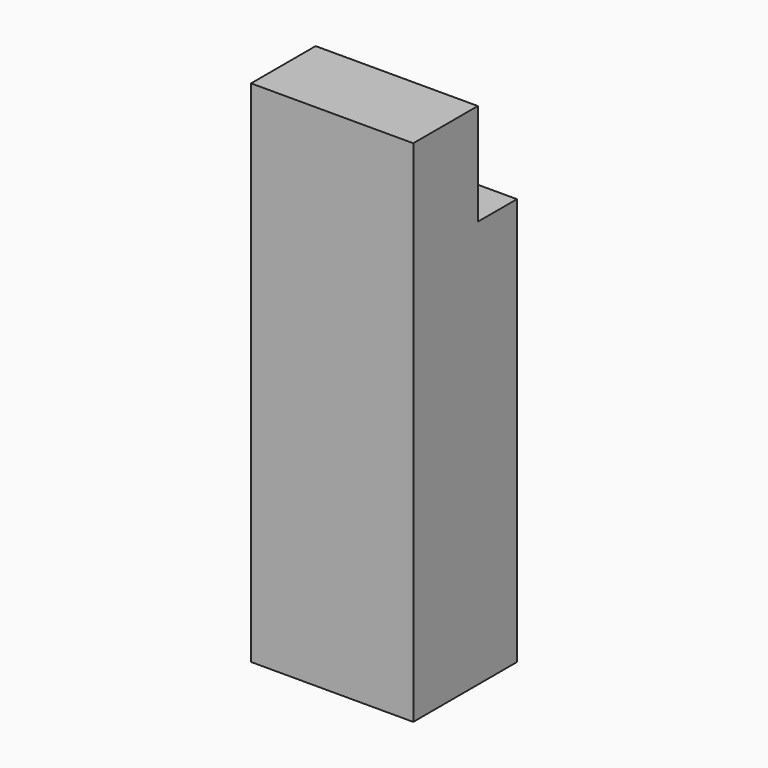
from build123d import *

# Parameters (mm, degrees)
F0_W     = 36.8
F0_H     = 1.5
F0_W_2   = 1.5
F1_DEPTH = 25
F2_DEPTH = 100
F0_H_2   = 10.5
F3_DEPTH = 2
F4_R     = 3
F5_W     = 36.8
F5_H     = 16.8
F6_DEPTH = 2


with BuildPart() as f1:
    # F0 (on Top) → F1 (new body)
    with BuildSketch(Plane.XY):
        with Locations((19.9, 19.05)):
            Rectangle(F0_W, F0_H)
        with Locations((39.05, 19.05)):
            Rectangle(F0_W_2, F0_H)
        Polygon((0, 18.3), (0, 0), (39.8, 0), (39.8, 18.3), (38.3, 18.3), (38.3, 1.5), (1.5, 1.5), (1.5, 18.3), align=None)
        with Locations((0.75, 19.05)):
            Rectangle(F0_W_2, F0_H)
    extrude(amount=F1_DEPTH)

    # F0 (on Top) → F2 (join)
    with BuildSketch(Plane.XY):
        Polygon((0, 31.8), (0, 19.8), (1.5, 19.8), (1.5, 30.3), (38.3, 30.3), (38.3, 19.8), (39.8, 19.8), (39.8, 31.8), align=None)
        Polygon((0, 18.3), (0, 0), (39.8, 0), (39.8, 18.3), (38.3, 18.3), (38.3, 1.5), (1.5, 1.5), (1.5, 18.3), align=None)
        with Locations((39.05, 19.05)):
            Rectangle(F0_W_2, F0_H)
        with Locations((0.75, 19.05)):
            Rectangle(F0_W_2, F0_H)
    extrude(amount=-F2_DEPTH)

    # F0 (on Top) → F3 (join)
    with BuildSketch(Plane.XY):
        with Locations((19.9, 25.05)):
            Rectangle(F0_W, F0_H_2)
        with Locations((19.9, 19.05)):
            Rectangle(F0_W, F0_H)
    extrude(amount=-F3_DEPTH)

    # F4
    f4_edges = [f1.edges().sort_by_distance(p)[0] for p in [
        (19.9, 18.3, -2),
    ]]
    fillet(f4_edges, radius=F4_R)

    # F5 (on face) → F6 (join)
    with BuildSketch(Plane.XY.offset(25)):
        with Locations((19.9, 9.9)):
            Rectangle(F5_W, F5_H)
    extrude(amount=-F6_DEPTH)


solid = f1.part
